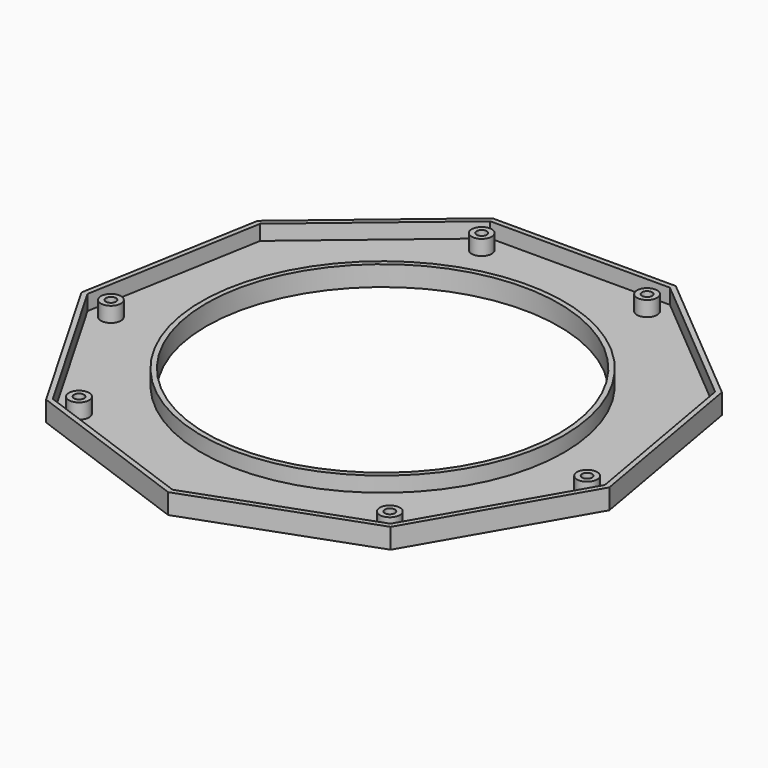
from build123d import *

# Parameters (mm, degrees)
F1_DEPTH = 20
F2_R     = 175
F3_DEPTH = 20.001
F4_R     = 5
F5_DEPTH = 20.001
F6_T     = -5


with BuildPart() as f1:
    # F0 (on Top) → F1 (new body)
    with BuildSketch(Plane.XY):
        Polygon((90.9925585666, 250), (-90.9925585666, 250), (-230.4012462767, 133.0222215595), (-262.0026302294, -46.198132726), (-171.0100716628, -203.801867274), (0, -266.044443119), (171.0100716628, -203.801867274), (262.0026302294, -46.198132726), (230.4012462767, 133.0222215595), align=None)
    extrude(amount=F1_DEPTH)

    # F2 (on face) → F3 (cut, through all)
    with BuildSketch(Plane.XY.offset(20)):
        Circle(F2_R)
    extrude(amount=-F3_DEPTH, mode=Mode.SUBTRACT)

    # F4 (on face) → F5 (cut, through all)
    with BuildSketch(Plane.XY.offset(20)):
        with Locations((-154.2690263248, -183.8506663486)):
            Circle(F4_R)
        with Locations((236.3538607229, -41.6755626401)):
            Circle(F4_R)
        with Locations((82.0848343982, 225.5262289886)):
            Circle(F4_R)
        with Locations((-236.3538607229, -41.6755626401)):
            Circle(F4_R)
        with Locations((154.2690263248, -183.8506663486)):
            Circle(F4_R)
        with Locations((-82.0848343982, 225.5262289886)):
            Circle(F4_R)
    extrude(amount=-F5_DEPTH, mode=Mode.SUBTRACT)

    # F6
    f6_openings = [f1.faces().sort_by_distance(p)[0] for p in [
        (155.969535, 185.877254, 20),
    ]]
    offset(amount=F6_T, openings=f6_openings)


solid = f1.part
